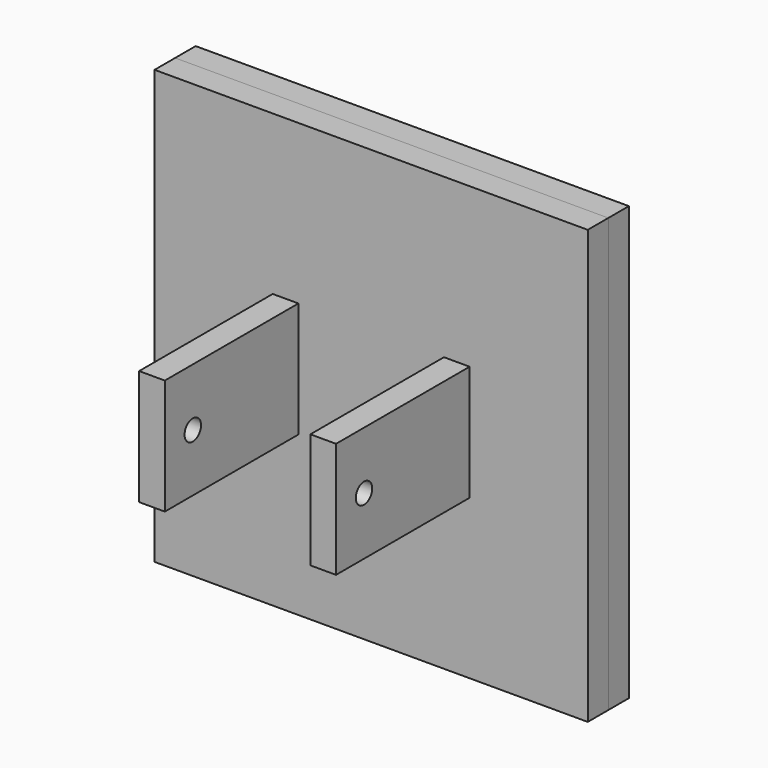
from build123d import *

# Parameters (mm, degrees)
F0_W        = 42.833638
F0_H        = 42.833634
F1_DEPTH    = 2.54
F2_W        = 2.54
F2_H        = 11.409302
F3_DEPTH    = 19.05
F4_R        = 1.016
F5_DEPTH    = 31.152836
F1_FACE_W   = 42.833638
F1_FACE_H   = 42.833634
F1_FACE_W_2 = 2.54
F1_FACE_H_2 = 11.409302
F6_DEPTH    = 2.54


with BuildPart() as f1:
    # F0 (on Front) → F1 (new body)
    with BuildSketch(Plane.XZ):
        Rectangle(F0_W, F0_H)
    extrude(amount=F1_DEPTH)

    # F2 (on face) → F3 (join)
    with BuildSketch(Plane.XZ.offset(2.54)):
        with Locations((-8.465018, 0)):
            Rectangle(F2_W, F2_H)
        with Locations((8.465018, 0)):
            Rectangle(F2_W, F2_H)
    extrude(amount=F3_DEPTH)

    # F4 (on face) → F5 (cut, through all)
    with BuildSketch(Plane.YZ.offset(9.735018)):
        with Locations((-18.131167, 0)):
            Circle(F4_R)
    extrude(amount=-F5_DEPTH, mode=Mode.SUBTRACT)


with BuildPart() as f6:
    # F1_face (on face) → F6 (new body)
    with BuildSketch(Plane.XZ.offset(2.54)):
        Rectangle(F1_FACE_W, F1_FACE_H)
        with Locations((-8.465018, 0)):
            Rectangle(F1_FACE_W_2, F1_FACE_H_2, mode=Mode.SUBTRACT)
        with Locations((8.465018, 0)):
            Rectangle(F1_FACE_W_2, F1_FACE_H_2, mode=Mode.SUBTRACT)
    extrude(amount=F6_DEPTH)


solid = Compound([f1.part, f6.part])
